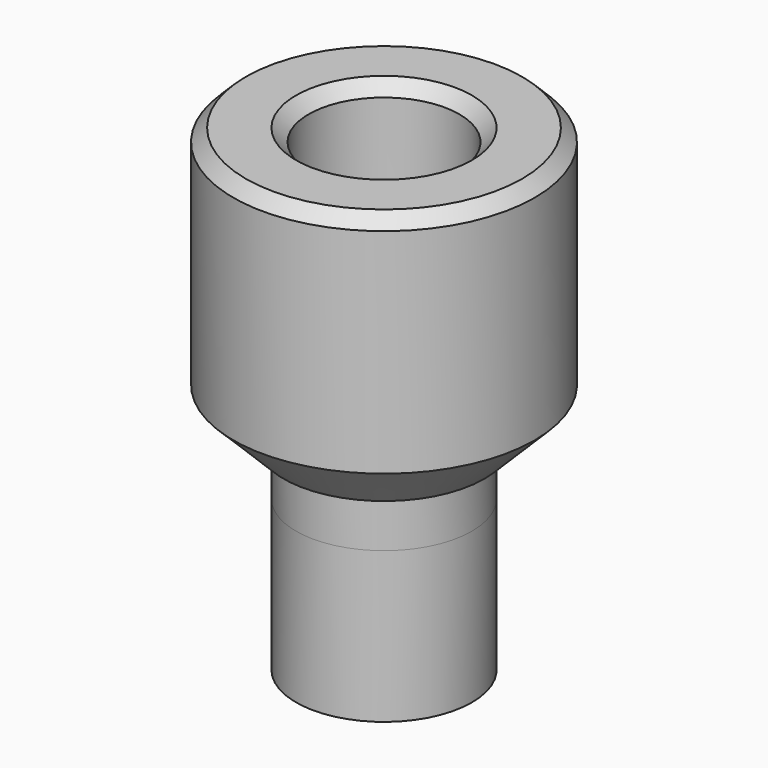
from build123d import *

# Parameters (mm, degrees)
F0_R     = 3.5
F0_R_2   = 1.5
F1_DEPTH = 6
F2_R     = 3.5
F2_R_2   = 1.5
F3_DEPTH = 2
F4_R     = 3.5
F4_R_2   = 3
F5_DEPTH = 2
F4_R_3   = 6
F6_DEPTH = 11
F7_SIZE  = 0.5
F8_SIZE  = 2


with BuildPart() as f1:
    # F0 (on Top) → F1 (new body)
    with BuildSketch(Plane.XY):
        Circle(F0_R)
        Circle(F0_R_2, mode=Mode.SUBTRACT)
    extrude(amount=-F1_DEPTH)

    # F2 (on face) → F3 (join)
    with BuildSketch(Plane.XY):
        Circle(F2_R)
        Circle(F2_R_2, mode=Mode.SUBTRACT)
        Circle(F2_R_2)
    extrude(amount=F3_DEPTH)

    # F4 (on face) → F5 (join)
    with BuildSketch(Plane.XY.offset(2)):
        Circle(F4_R)
        Circle(F4_R_2, mode=Mode.SUBTRACT)
        Circle(F4_R)
        Circle(F4_R_2, mode=Mode.SUBTRACT)
        Circle(F4_R_2)
    extrude(amount=F5_DEPTH)

    # F4 (on face) → F6 (join)
    with BuildSketch(Plane.XY.offset(2)):
        Circle(F4_R_3)
        Circle(F4_R_2, mode=Mode.SUBTRACT)
    extrude(amount=F6_DEPTH)

    # F7
    f7_edges = [f1.edges().sort_by_distance(p)[0] for p in [
        (-3, 0, 13),
        (-6, 0, 13),
        (-1.5, 0, -6),
    ]]
    chamfer(f7_edges, length=F7_SIZE)

    # F8
    f8_edges = [f1.edges().sort_by_distance(p)[0] for p in [
        (-6, 0, 2),
    ]]
    chamfer(f8_edges, length=F8_SIZE)


solid = f1.part
